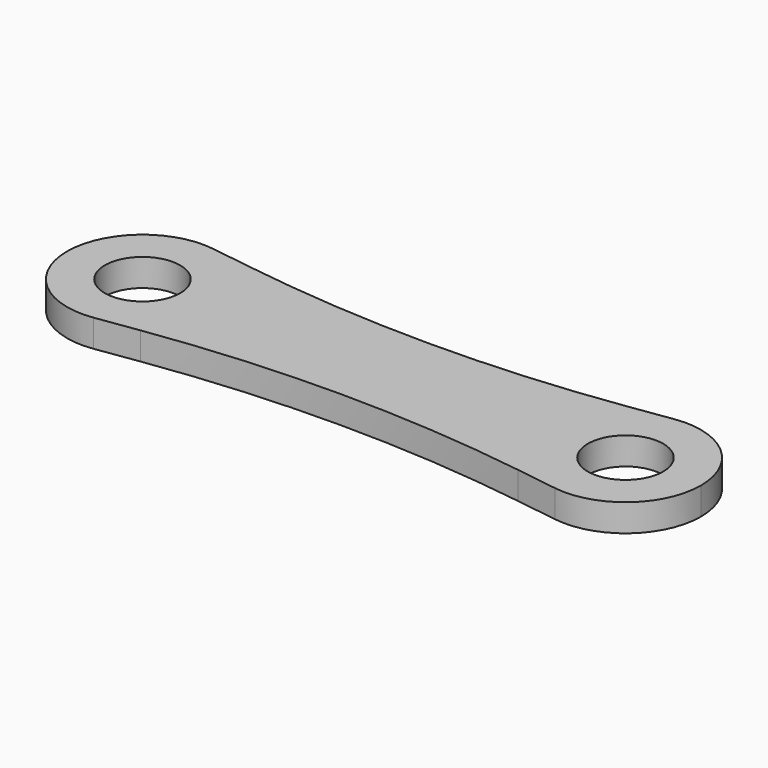
from build123d import *

# Parameters (mm, degrees)
F0_R     = 13.75
F1_DEPTH = 10
F2_R     = 478.617491


with BuildPart() as f1:
    # F0 (on Top) → F1 (new body)
    with BuildSketch(Plane.XY):
        with BuildLine():
            ThreePointArc((-84.117798, 27.214582), (-67.273856, 17.994112), (-60.569575, 0))
            ThreePointArc((-60.569575, 0), (-67.273856, -17.994112), (-84.117798, -27.214582))
            Line((-84.117798, -27.214582), (0, -15))
            Line((0, -15), (84.117798, -27.214582))
            ThreePointArc((84.117798, -27.214582), (60.569575, 0), (84.117798, 27.214582))
            Line((84.117798, 27.214582), (0, 15))
            Line((0, 15), (-84.117798, 27.214582))
        make_face()
        with BuildLine():
            ThreePointArc((-84.117798, -27.214582), (-67.273856, -17.994112), (-60.569575, 0))
            ThreePointArc((-60.569575, 0), (-67.273856, 17.994112), (-84.117798, 27.214582))
            ThreePointArc((-84.117798, 27.214582), (-115.569575, 0), (-84.117798, -27.214582))
        make_face()
        with Locations((-88.069575, 0)):
            Circle(F0_R, mode=Mode.SUBTRACT)
        with BuildLine():
            ThreePointArc((115.569575, 0), (106.063687, 20.795719), (84.117798, 27.214582))
            ThreePointArc((84.117798, 27.214582), (60.569575, 0), (84.117798, -27.214582))
            ThreePointArc((84.117798, -27.214582), (106.063687, -20.795719), (115.569575, 0))
        make_face()
        with Locations((88.069575, 0)):
            Circle(F0_R, mode=Mode.SUBTRACT)
    extrude(amount=F1_DEPTH)

    # F2
    f2_edges = [f1.edges().sort_by_distance(p)[0] for p in [
        (0, -15, 5),
        (0, 15, 5),
    ]]
    fillet(f2_edges, radius=F2_R)


solid = f1.part
